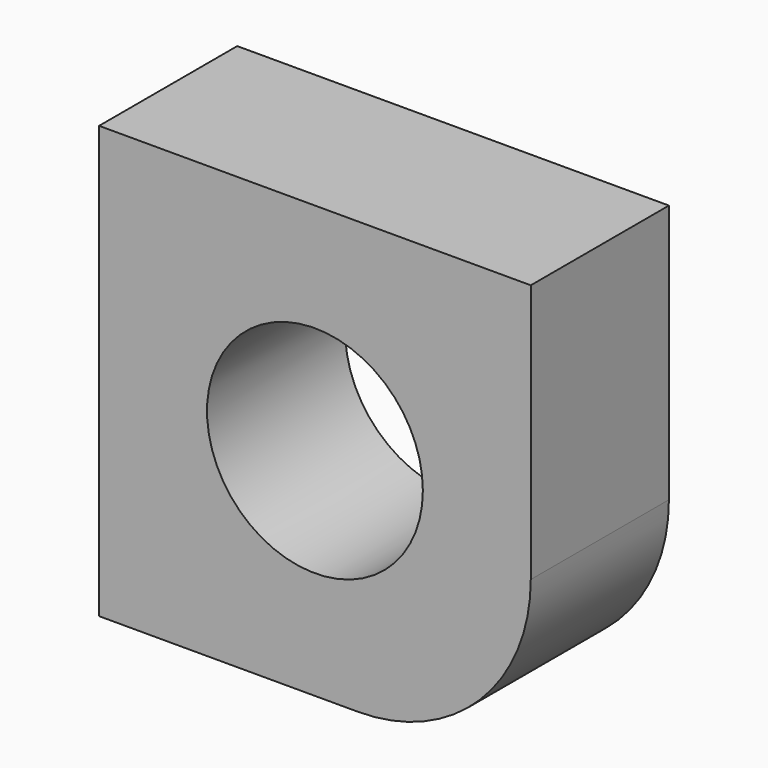
from build123d import *

# Parameters (mm, degrees)
F0_W     = 127
F0_H     = 50.8
F1_DEPTH = 63.5
F2_R     = 50.8
F3_R     = 31.75
F4_DEPTH = 50.801


with BuildPart() as f1:
    # F0 (on Top) → F1 (new body, symmetric)
    with BuildSketch(Plane.XY):
        Rectangle(F0_W, F0_H)
    extrude(amount=F1_DEPTH, both=True)

    # F2
    f2_edges = [f1.edges().sort_by_distance(p)[0] for p in [
        (63.5, 0, -63.5),
    ]]
    fillet(f2_edges, radius=F2_R)

    # F3 (on face) → F4 (cut, through all)
    with BuildSketch(Plane.XZ.offset(25.4)):
        Circle(F3_R)
    extrude(amount=-F4_DEPTH, mode=Mode.SUBTRACT)


solid = f1.part
